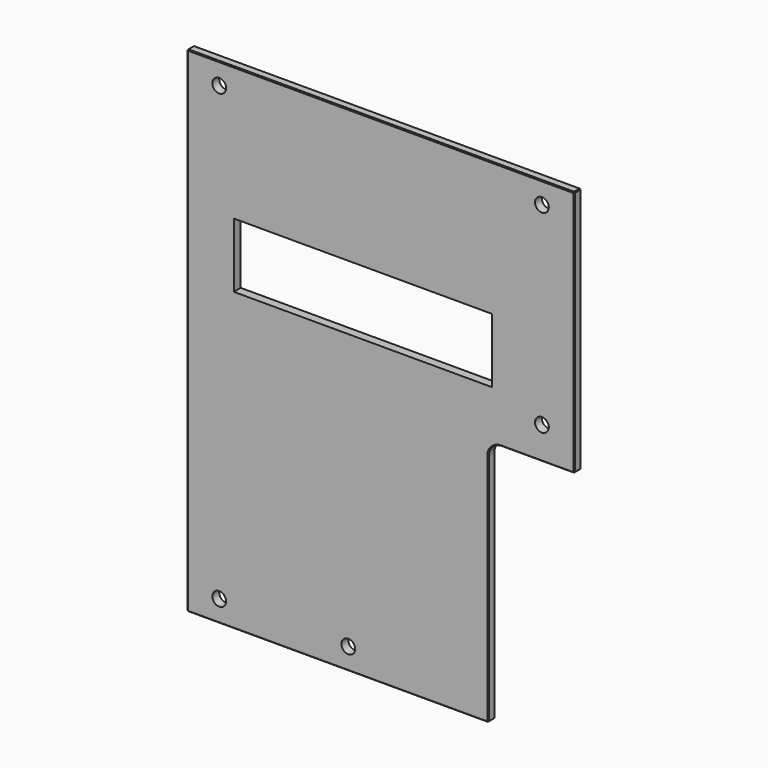
from build123d import *

# Parameters (mm, degrees)
F0_R     = 1.6
F0_W     = 60
F0_H     = 15
F1_DEPTH = 2
F2_R     = 3
F3_SIZE  = 0.2


with BuildPart() as f1:
    # F0 (on Front) → F1 (new body)
    with BuildSketch(Plane.XZ):
        Polygon((-45, -57.5), (25, -57.5), (25, 0), (45, 0), (45, 57.5), (-45, 57.5), align=None)
        with Locations((-37.5, -52.5)):
            Circle(F0_R, mode=Mode.SUBTRACT)
        with Locations((-7.5, -52.5)):
            Circle(F0_R, mode=Mode.SUBTRACT)
        with Locations((-4.111738, 18.929576)):
            Rectangle(F0_W, F0_H, mode=Mode.SUBTRACT)
        with Locations((-37.5, 52.5)):
            Circle(F0_R, mode=Mode.SUBTRACT)
        with Locations((37.5, 7.5)):
            Circle(F0_R, mode=Mode.SUBTRACT)
        with Locations((37.5, 52.5)):
            Circle(F0_R, mode=Mode.SUBTRACT)
    extrude(amount=F1_DEPTH)

    # F2
    f2_edges = [f1.edges().sort_by_distance(p)[0] for p in [
        (25, -1, 0),
    ]]
    fillet(f2_edges, radius=F2_R)

    # F3
    f3_edges = [f1.edges().sort_by_distance(p)[0] for p in [
        (0, -2, 57.5),
        (0, 0, 57.5),
        (45, -1, 57.5),
        (45, 0, 28.75),
        (36.5, -2, 0),
        (45, -2, 28.75),
        (-10, -2, -57.5),
        (45, -1, 0),
        (36.5, 0, 0),
        (25, -1, -57.5),
        (-10, 0, -57.5),
        (-45, 0, 0),
        (-45, -2, 0),
        (-45, -1, 57.5),
        (-45, -1, -57.5),
    ]]
    chamfer(f3_edges, length=F3_SIZE)


solid = f1.part
